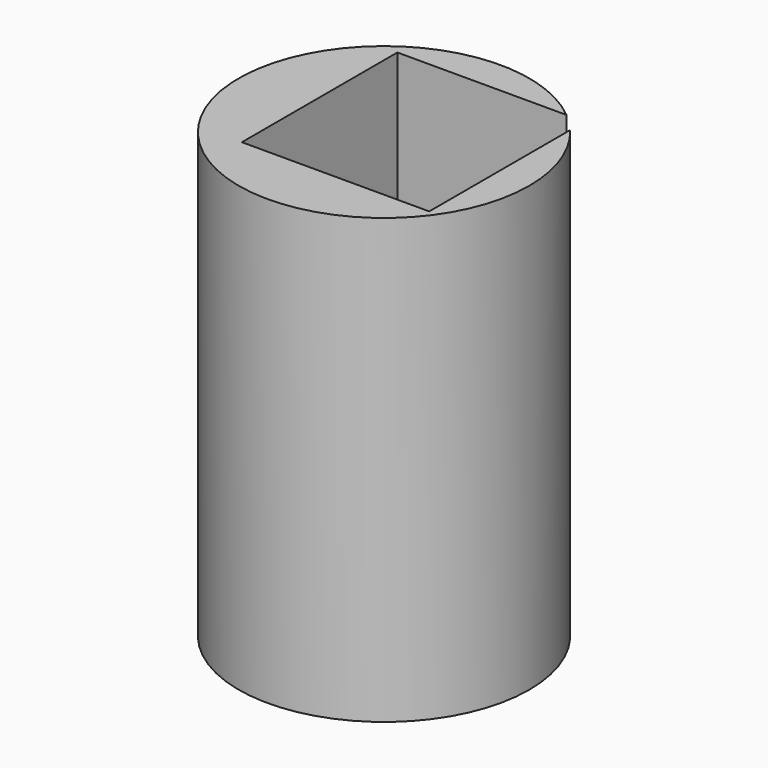
from build123d import *

# Parameters (mm, degrees)
F1_R          = 13.105
F1_R_2        = 5
F2_DEPTH      = 25
F2_DEPTH_BACK = 15
F5_DEPTH      = 15.48


with BuildPart() as f2:
    # F1 (on Top) → F2 (new body, two sides)
    with BuildSketch(Plane.XY) as f2_sk:
        Circle(F1_R)
        Circle(F1_R_2, mode=Mode.SUBTRACT)
    extrude(amount=-F2_DEPTH)
    extrude(f2_sk.sketch, amount=F2_DEPTH_BACK)

    # F4 (on offset) → F5 (cut)
    with BuildSketch(Plane.XY.offset(15)):
        Polygon((10.0449961981, 10.0600004722), (-6.8450038019, 10.0600004722), (-6.8450038019, -5.8399995278), (-6.8450038019, -7.4599995278), (10.0449961981, -7.4599995278), align=None)
    extrude(amount=-F5_DEPTH, mode=Mode.SUBTRACT)


solid = f2.part
